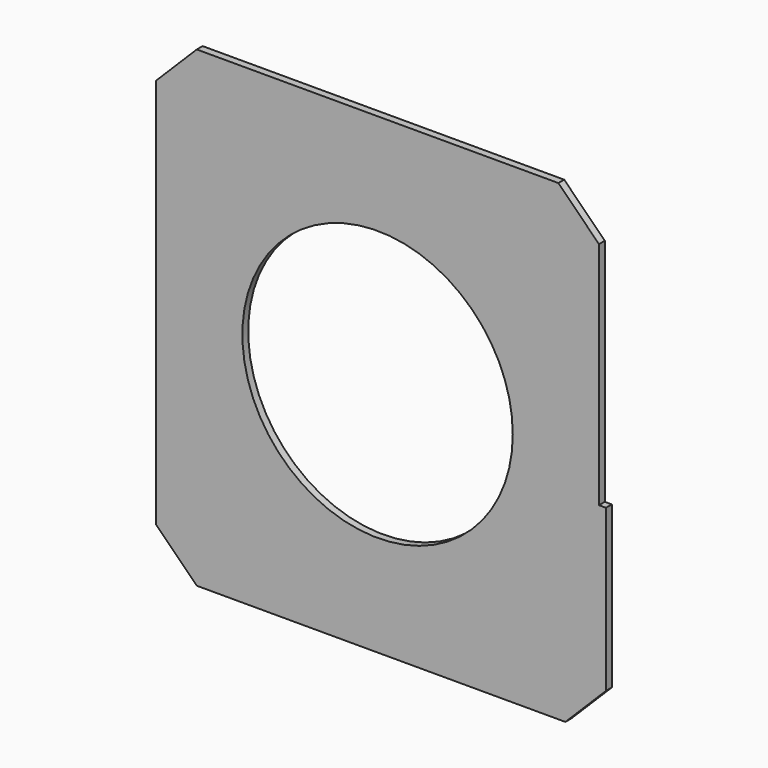
from build123d import *

# Parameters (mm, degrees)
F0_R     = 63.5
F1_DEPTH = 3.429
F2_SIZE  = 19.05


with BuildPart() as f1:
    # F0 (on Front) → F1 (new body)
    with BuildSketch(Plane.XZ):
        Polygon((103.9749, -16.129), (103.9749, 110.871), (-103.9749, 110.871), (-103.9749, -110.871), (107.2769, -110.871), (107.2769, -16.129), align=None)
        Circle(F0_R, mode=Mode.SUBTRACT)
    extrude(amount=F1_DEPTH)

    # F2
    f2_edges = [f1.edges().sort_by_distance(p)[0] for p in [
        (-103.9749, -1.7145, 110.871),
        (103.9749, -1.7145, 110.871),
        (107.2769, -1.7145, -110.871),
        (-103.9749, -1.7145, -110.871),
    ]]
    chamfer(f2_edges, length=F2_SIZE)


solid = f1.part
